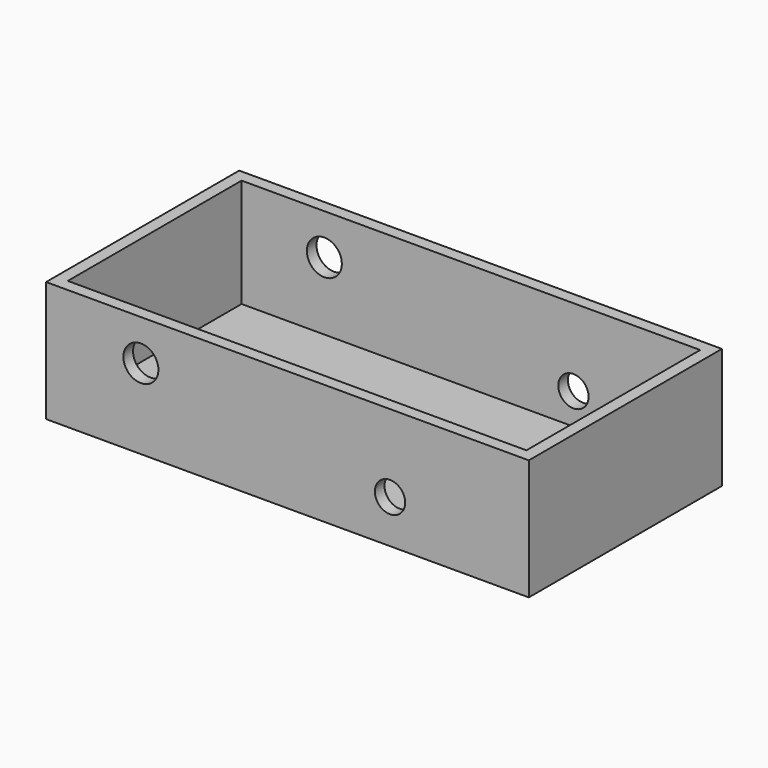
from build123d import *

# Parameters (mm, degrees)
F0_W          = 203.2
F0_H          = 101.6
F1_DEPTH      = 25.4
F1_DEPTH_BACK = 25.4
F2_T          = -5.08
F3_R          = 7.363312
F3_R_2        = 6.379647
F4_DEPTH      = 101.601


with BuildPart() as f1:
    # F0 (on Top) → F1 (new body, two sides)
    with BuildSketch(Plane.XY) as f1_sk:
        Rectangle(F0_W, F0_H)
    extrude(amount=F1_DEPTH)
    extrude(f1_sk.sketch, amount=-F1_DEPTH_BACK)

    # F2
    f2_openings = [f1.faces().sort_by_distance(p)[0] for p in [
        (0, 0, 25.4),
    ]]
    offset(amount=F2_T, openings=f2_openings)

    # F3 (on face) → F4 (cut, through all)
    with BuildSketch(Plane.XZ.offset(50.8)):
        with Locations((-61.689176, 8.265927)):
            Circle(F3_R)
        with Locations((43.166649, -7.2081)):
            Circle(F3_R_2)
    extrude(amount=-F4_DEPTH, mode=Mode.SUBTRACT)


solid = f1.part
